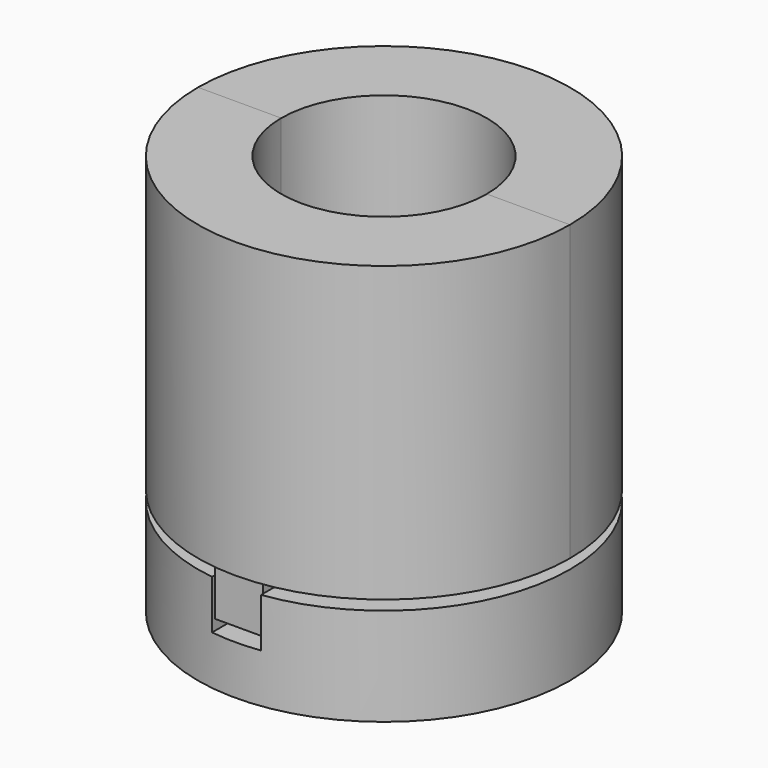
from build123d import *

# Parameters (mm, degrees)
SKETCH_R        = 19
PAD_DEPTH       = 10
SKETCH001_R     = 10.5
POCKET_DEPTH    = 10
SKETCH002_R     = 1.75
POCKET001_DEPTH = 20
SKETCH003_W     = 5
SKETCH003_H     = 40.58
POCKET002_DEPTH = 5
PAD001_DEPTH    = 30
POCKET003_DEPTH = 30
SKETCH007_W     = 4.9
SKETCH007_H     = 8.2
PAD002_DEPTH    = 4.9
SKETCH008_R     = 2.475
PAD003_DEPTH    = 5
FILLET_R        = 1
FILLET001_R     = 1
SKETCH015_R     = 2.5
POCKET007_DEPTH = 5.1
PAD004_DEPTH    = 30
POCKET005_DEPTH = 30
SKETCH012_W     = 4.9
SKETCH012_H     = 8.2
PAD005_DEPTH    = 4.9
SKETCH013_R     = 2.5
POCKET006_DEPTH = 5.1
SKETCH014_R     = 2.475
PAD006_DEPTH    = 5
FILLET002_R     = 1
FILLET003_R     = 1


with BuildPart() as couplerencoder:
    # Sketch → Pad (new body)
    with BuildSketch(Plane.XY):
        Circle(SKETCH_R)
    extrude(amount=PAD_DEPTH)

    # Sketch001 (on Face3 of Pad) → Pocket (cut)
    with BuildSketch(Plane.XY.offset(10)):
        Circle(SKETCH001_R)
    extrude(amount=-POCKET_DEPTH, mode=Mode.SUBTRACT)

    # Sketch002 (on Face3 of Pocket) → Pocket001 (cut)
    with BuildSketch(Plane.XY.offset(10)):
        with Locations((14.5, 0)):
            Circle(SKETCH002_R)
        with Locations((-7.125, 12.35)):
            Circle(SKETCH002_R)
        with Locations((-7.125, -12.35)):
            Circle(SKETCH002_R)
    extrude(amount=-POCKET001_DEPTH, mode=Mode.SUBTRACT)

    # Sketch003 (on Face3 of Pocket001) → Pocket002 (cut)
    with BuildSketch(Plane.XY.offset(10)):
        Rectangle(SKETCH003_W, SKETCH003_H)
    extrude(amount=-POCKET002_DEPTH, mode=Mode.SUBTRACT)


with BuildPart() as couplerencoder_1:
    # Body placement: moved
    add(couplerencoder.part.moved(Location((0, 0, -11))))


with BuildPart() as couplermotorleftpart:
    # Sketch004 → Pad001 (new body)
    with BuildSketch(Plane.XY):
        with BuildLine():
            ThreePointArc((19, 0), (0, 19), (-19, 0))
            Line((-19, 0), (19, 0))
        make_face()
    extrude(amount=PAD001_DEPTH)

    # Sketch005 (on Face3 of Pad001) → Pocket003 (cut)
    with BuildSketch(Plane(origin=(0, 0, 0), x_dir=(1, 0, 0), z_dir=(0, 0, -1))):
        with BuildLine():
            ThreePointArc((-10.5, 0), (0, -10.5), (10.5, 0))
            Line((-10.5, 0), (10.5, 0))
        make_face()
    extrude(amount=-POCKET003_DEPTH, mode=Mode.SUBTRACT)

    # Sketch007 (on Face4 of Pocket003) → Pad002 (join)
    with BuildSketch(Plane(origin=(0, 0, 0), x_dir=(1, 0, 0), z_dir=(0, 0, -1))):
        with Locations((0, -14.4)):
            Rectangle(SKETCH007_W, SKETCH007_H)
    extrude(amount=PAD002_DEPTH)

    # Sketch008 (on Face2 of Pad002) → Pad003 (join)
    with BuildSketch(Plane.XZ):
        with Locations((14.83, 23.61)):
            Circle(SKETCH008_R)
        with Locations((-14.83, 6.988195)):
            Circle(SKETCH008_R)
    extrude(amount=PAD003_DEPTH)

    # Fillet
    fillet_edges = [couplermotorleftpart.edges().sort_by_distance(p)[0] for p in [
        (12.355, -5, 23.61),
    ]]
    fillet(fillet_edges, radius=FILLET_R)

    # Fillet001
    fillet001_edges = [couplermotorleftpart.edges().sort_by_distance(p)[0] for p in [
        (-12.355, -2.5, 6.988195),
        (-17.305, 0, 6.988195),
        (-17.305, -5, 6.988195),
    ]]
    fillet(fillet001_edges, radius=FILLET001_R)

    # Sketch015 (on Face12 of Fillet001) → Pocket007 (cut)
    with BuildSketch(Plane.XZ):
        with Locations((-14.83, 23.61)):
            Circle(SKETCH015_R)
        with Locations((14.83, 6.988195)):
            Circle(SKETCH015_R)
    extrude(amount=-POCKET007_DEPTH, mode=Mode.SUBTRACT)


with BuildPart() as couplermotorrightpart:
    # Sketch010 → Pad004 (new body)
    with BuildSketch(Plane.XY):
        with BuildLine():
            ThreePointArc((-19, 0), (0, -19), (19, 0))
            Line((-19, 0), (19, 0))
        make_face()
    extrude(amount=PAD004_DEPTH)

    # Sketch011 (on Face4 of Pad004) → Pocket005 (cut)
    with BuildSketch(Plane.XY.offset(30)):
        with BuildLine():
            ThreePointArc((-10.5, 0), (0, -10.5), (10.5, 0))
            Line((-10.5, 0), (10.5, 0))
        make_face()
    extrude(amount=-POCKET005_DEPTH, mode=Mode.SUBTRACT)

    # Sketch012 (on Face4 of Pocket005) → Pad005 (join)
    with BuildSketch(Plane(origin=(0, 0, 0), x_dir=(1, 0, 0), z_dir=(0, 0, -1))):
        with Locations((0, 14.4)):
            Rectangle(SKETCH012_W, SKETCH012_H)
    extrude(amount=PAD005_DEPTH)

    # Sketch013 (on Face2 of Pad005) → Pocket006 (cut)
    with BuildSketch(Plane(origin=(0, 0, 0), x_dir=(-1, 0, 0), z_dir=(0, 1, 0))):
        with Locations((-14.83, 23.61)):
            Circle(SKETCH013_R)
        with Locations((14.83, 6.988195)):
            Circle(SKETCH013_R)
    extrude(amount=-POCKET006_DEPTH, mode=Mode.SUBTRACT)

    # Sketch014 (on Face2 of Pocket006) → Pad006 (join)
    with BuildSketch(Plane(origin=(0, 0, 0), x_dir=(-1, 0, 0), z_dir=(0, 1, 0))):
        with Locations((14.83, 23.61)):
            Circle(SKETCH014_R)
        with Locations((-14.83, 6.988195)):
            Circle(SKETCH014_R)
    extrude(amount=PAD006_DEPTH)

    # Fillet002
    fillet002_edges = [couplermotorrightpart.edges().sort_by_distance(p)[0] for p in [
        (-12.355, 5, 23.61),
    ]]
    fillet(fillet002_edges, radius=FILLET002_R)

    # Fillet003
    fillet003_edges = [couplermotorrightpart.edges().sort_by_distance(p)[0] for p in [
        (17.305, 5, 6.988195),
    ]]
    fillet(fillet003_edges, radius=FILLET003_R)


solid = Compound([couplerencoder_1.part, couplermotorleftpart.part, couplermotorrightpart.part])
